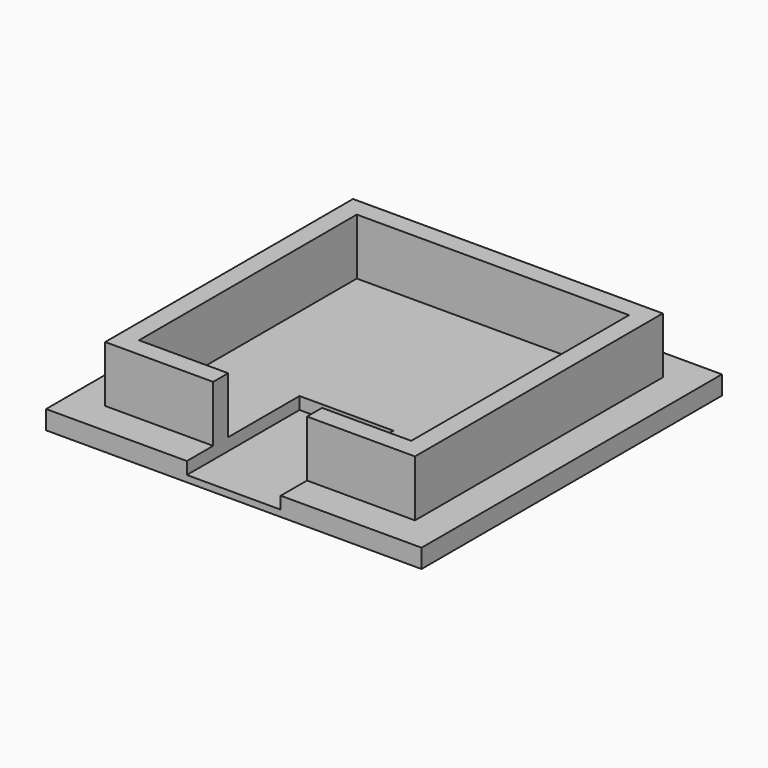
from build123d import *

# Parameters (mm, degrees)
SKETCH_W        = 40
SKETCH_H        = 40
PAD_DEPTH       = 2
SKETCH001_W     = 33
SKETCH001_H     = 33
PAD001_DEPTH    = 6
SKETCH002_W     = 29
SKETCH002_H     = 29
POCKET_DEPTH    = 6
SKETCH003_W     = 10
SKETCH003_H     = 10
POCKET001_DEPTH = 15


with BuildPart() as part:
    # Sketch → Pad (new body)
    with BuildSketch(Plane.XY):
        Rectangle(SKETCH_W, SKETCH_H)
    extrude(amount=PAD_DEPTH)

    # Sketch001 (on Face6 of Pad) → Pad001 (join)
    with BuildSketch(Plane.XY.offset(2)):
        Rectangle(SKETCH001_W, SKETCH001_H)
    extrude(amount=PAD001_DEPTH)

    # Sketch002 (on Face11 of Pad001) → Pocket (cut)
    with BuildSketch(Plane.XY.offset(8)):
        Rectangle(SKETCH002_W, SKETCH002_H)
    extrude(amount=-POCKET_DEPTH, mode=Mode.SUBTRACT)

    # Sketch003 (on DatumPlane) → Pocket001 (cut)
    with BuildSketch(Plane.XZ.offset(20)):
        with Locations((0, 5.690688)):
            Rectangle(SKETCH003_W, SKETCH003_H)
    extrude(amount=-POCKET001_DEPTH, mode=Mode.SUBTRACT)


solid = part.part
